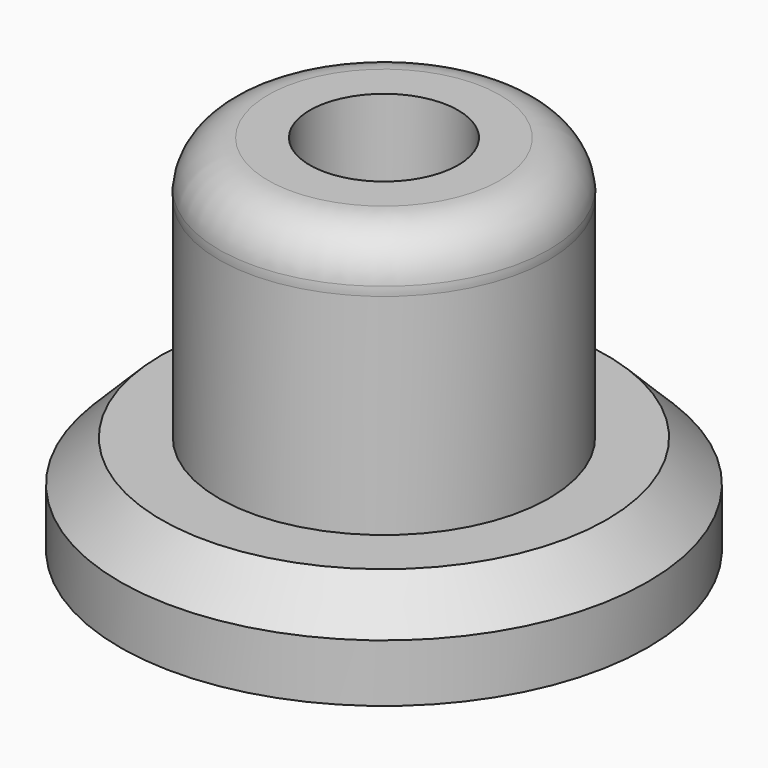
from build123d import *


with BuildPart() as f1:
    # F0 (on Front) → F1 (revolve)
    with BuildSketch(Plane.XZ):
        with BuildLine():
            Line((24.5, 0), (32, 0))
            Line((32, 0), (32, 7))
            Line((32, 7), (27, 12))
            Line((27, 12), (20, 12))
            Line((20, 12), (20, 37.458379))
            Line((20, 37.458379), (20, 38.541721))
            ThreePointArc((20, 38.541721), (18.080139, 42.421792), (14.049001, 44))
            Line((14.049001, 44), (14, 44))
            Line((14, 44), (9, 44))
            Line((9, 44), (9, 28))
            Line((9, 28), (12.25, 28))
            Line((12.25, 28), (12.25, 11))
            Line((12.25, 11), (21, 1.5))
            Line((21, 1.5), (24.5, 1.5))
            Line((24.5, 1.5), (24.5, 0))
        make_face()
        with BuildLine():
            Line((20, 38.541721), (20, 37.458379))
            ThreePointArc((20, 37.458379), (20.024501, 38.00005), (20, 38.541721))
        make_face()
    revolve(axis=Axis((0, 0, 23.532523), (0, 0, 1)))


solid = f1.part
